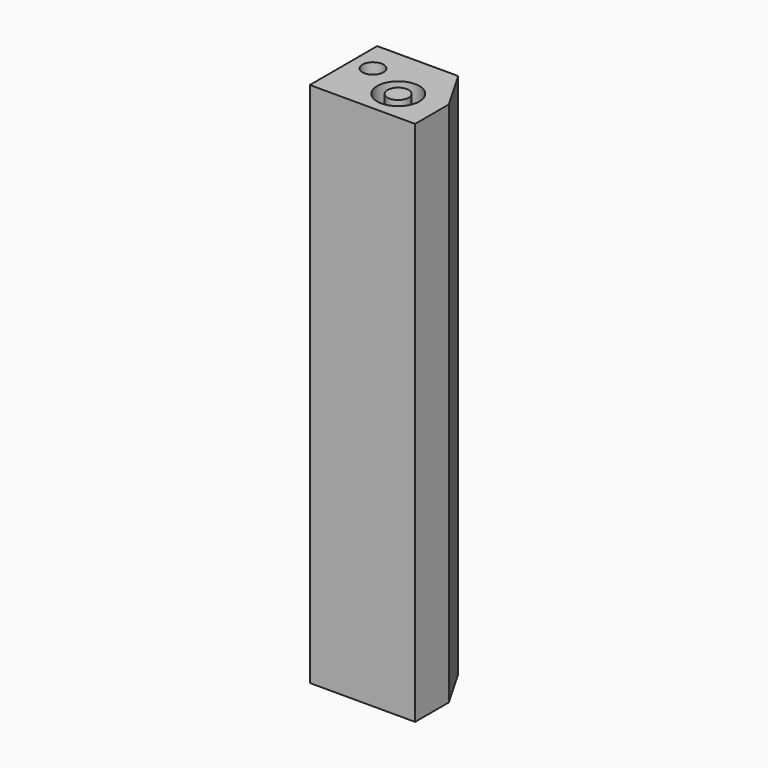
from build123d import *

# Parameters (mm, degrees)
F0_R     = 1
F0_R_2   = 0.5
F2_DEPTH = 25
F1_R     = 0.5
F3_DEPTH = 25


with BuildPart() as f2:
    # F0 (on Top) → F2 (new body)
    with BuildSketch(Plane.XY):
        Polygon((-50.241936, -6.212296), (-50.241936, -8.712296), (-47.241936, -8.712296), (-45.241936, -8.712296), (-45.241936, -6.712296), (-46.396637, -4.712296), (-50.241936, -4.712296), align=None)
        with Locations((-47.241936, -7.212296)):
            Circle(F0_R, mode=Mode.SUBTRACT)
        with Locations((-49.241936, -6.212296)):
            Circle(F0_R_2, mode=Mode.SUBTRACT)
    extrude(amount=F2_DEPTH)


with BuildPart() as f3:
    # F1 (on Top) → F3 (new body)
    with BuildSketch(Plane.XY):
        with Locations((-47.241829, -7.219651)):
            Circle(F1_R)
    extrude(amount=F3_DEPTH)


solid = Compound([f2.part, f3.part])
